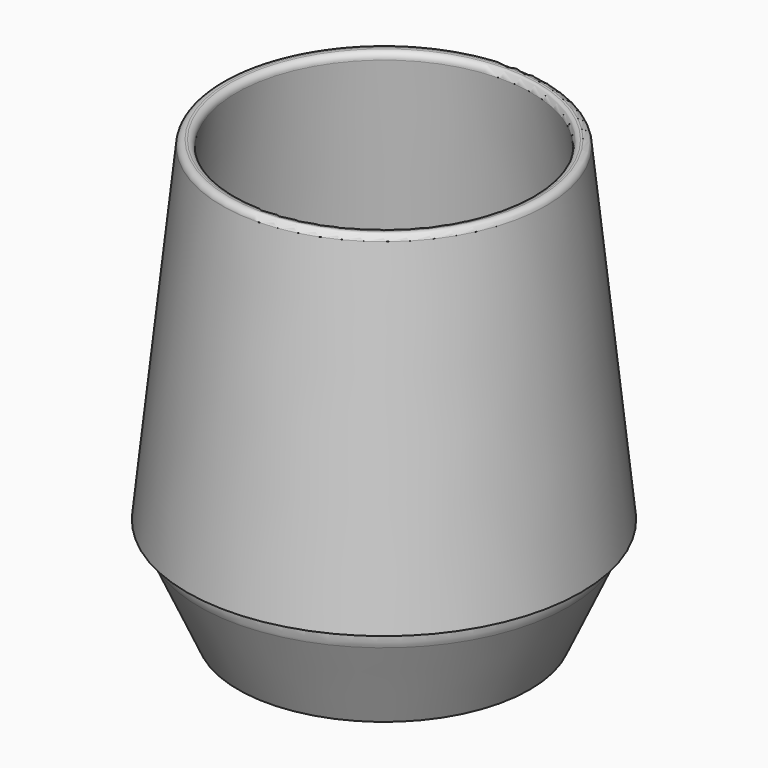
from build123d import *


with BuildPart() as f1:
    # F0 (on Front) → F1 (revolve)
    with BuildSketch(Plane.XZ):
        with BuildLine():
            Line((0, 9), (0, 6))
            Line((0, 6), (20.364169, 6))
            ThreePointArc((20.364169, 6), (23.456992, 5.121394), (25.625993, 2.748014))
            Line((25.625993, 2.748014), (27, 0))
            Line((27, 0), (30, 0))
            Line((30, 0), (37.974037, 17.568593))
            ThreePointArc((37.974037, 17.568593), (38.367006, 18.756178), (38.5, 20))
            Line((38.5, 20), (38.5, 21))
            Line((38.5, 21), (40.5, 21))
            Line((40.5, 21), (33.383695, 88.707122))
            ThreePointArc((33.383695, 88.707122), (32.908933, 89.581524), (31.954929, 89.864113))
            Line((31.954929, 89.864113), (31.557121, 89.822302))
            ThreePointArc((31.557121, 89.822302), (30.682718, 89.34754), (30.400129, 88.393536))
            Line((30.400129, 88.393536), (37.081947, 24.820281))
            ThreePointArc((37.081947, 24.820281), (37.038397, 23.26416), (36.588211, 21.773944))
            Line((36.588211, 21.773944), (32.356935, 12.451491))
            ThreePointArc((32.356935, 12.451491), (30.186281, 9.937587), (27, 9))
            Line((27, 9), (0, 9))
        make_face()
    revolve(axis=Axis((0, 0, 44.353561), (0, 0, 1)))


solid = f1.part
